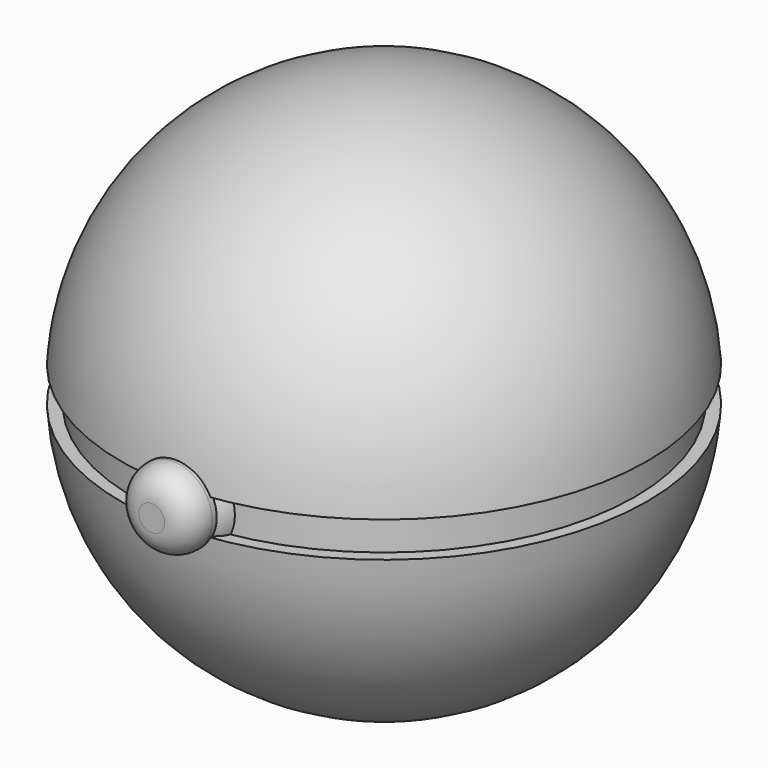
from build123d import *

# Parameters (mm, degrees)
F4_R     = 9.501223813
F5_DEPTH = 50.8
F6_R     = 7.5590710891
F7_DEPTH = 55.88
F8_R     = 5.08
F8_2_R   = 5.08


with BuildPart() as f1:
    # F0 (on Front) → F1 (revolve)
    with BuildSketch(Plane.XZ):
        with BuildLine():
            Line((0, 3.4089474939), (0, 50.8))
            ThreePointArc((0, 50.8), (-34.694851688, 37.1067010976), (-50.68549178, 3.4089474939))
            Line((-50.68549178, 3.4089474939), (0, 3.4089474939))
        make_face()
    revolve(axis=Axis((0, 0, -1.2031570077), (0, 0, -1)))


with BuildPart() as f1b:
    # F0 (on Front) → F1, piece 2 (revolve)
    with BuildSketch(Plane.XZ):
        with BuildLine():
            ThreePointArc((-50.68549178, -3.4089474939), (-34.694851688, -37.1067010976), (0, -50.8))
            Line((0, -50.8), (0, -3.4089474939))
            Line((0, -3.4089474939), (-50.68549178, -3.4089474939))
        make_face()
    revolve(axis=Axis((0, 0, -1.2031570077), (0, 0, -1)))


with BuildPart() as f3:
    # F2 (on Front) → F3 (revolve)
    with BuildSketch(Plane.XZ):
        Polygon((0, 3.6667124368), (0, 4.4237989932), (-48.3184829354, 4.4237989932), (-48.3184829354, -3.525609849), (0, -3.525609849), align=None)
    revolve(axis=Axis((0, 0, 0.0705512939), (0, 0, 1)))


with BuildPart() as f5:
    # F4 (on Front) → F5 (new body)
    with BuildSketch(Plane.XZ):
        Circle(F4_R)
    extrude(amount=F5_DEPTH)

    # F8#2
    f8_2_edges = [f5.edges().sort_by_distance(p)[0] for p in [
        (-9.501224, -50.8, 0),
    ]]
    fillet(f8_2_edges, radius=F8_2_R)


with BuildPart() as f7:
    # F6 (on Front) → F7 (new body)
    with BuildSketch(Plane.XZ):
        Circle(F6_R)
    extrude(amount=F7_DEPTH)

    # F8
    f8_edges = [f7.edges().sort_by_distance(p)[0] for p in [
        (-7.559071, -55.88, 0),
    ]]
    fillet(f8_edges, radius=F8_R)


solid = Compound([f1.part, f1b.part, f3.part, f5.part, f7.part])
